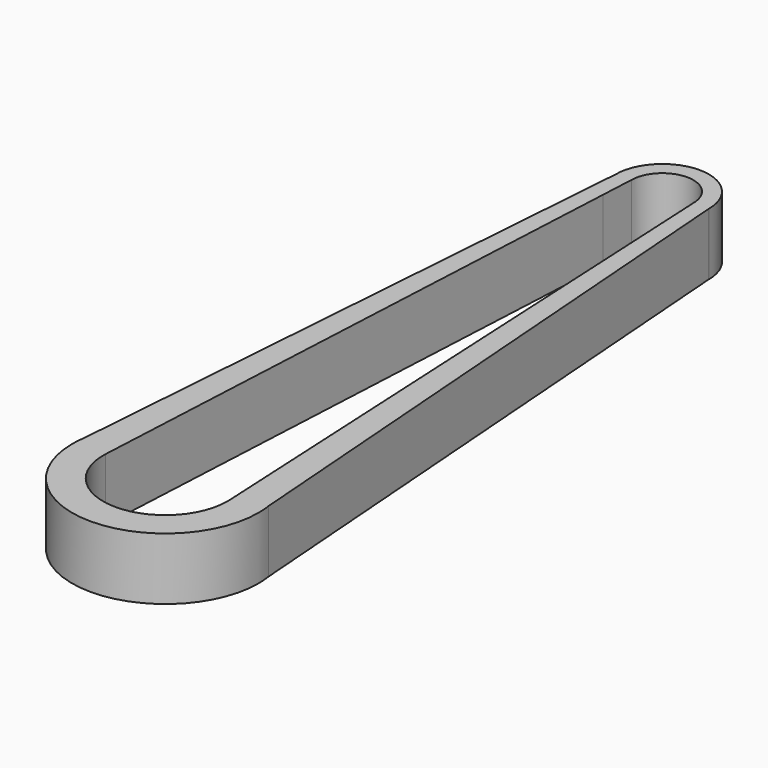
from build123d import *

# Parameters (mm, degrees)
F1_DEPTH = 12.5


with BuildPart() as f1:
    # F0 (on Top) → F1 (new body, symmetric)
    with BuildSketch(Plane.XY):
        with BuildLine():
            Line((23.5693570301, 29.1673689109), (24.9686519266, 1.2515674037))
            ThreePointArc((24.9686519266, 1.2515674037), (24.9921617529, 0.6259799653), (25, 0))
            ThreePointArc((25, 0), (-0.6259799653, -24.9921617529), (-24.9686519266, 1.2515674037))
            Line((-24.9686519266, 1.2515674037), (-23.5693570301, 29.1673689109))
            ThreePointArc((-23.5693570301, 29.1673689109), (-32.5350921775, 18.6471922015), (-37.0804847732, 5.593536358))
            Line((-37.0804847732, 5.593536358), (-37.5, 0))
            ThreePointArc((-37.5, 0), (0, -37.5), (37.5, 0))
            Line((37.5, 0), (37.079787025, 5.5981598921))
            ThreePointArc((37.079787025, 5.5981598921), (32.5339295521, 18.6492205709), (23.5693570301, 29.1673689109))
        make_face()
        with BuildLine():
            Line((13.1690200809, 236.6531123437), (23.5693570301, 29.1673689109))
            ThreePointArc((23.5693570301, 29.1673689109), (32.5339295521, 18.6492205709), (37.079787025, 5.5981598921))
            Line((37.079787025, 5.5981598921), (18.7489831982, 249.8047334338))
            ThreePointArc((18.7489831982, 249.8047334338), (17.260678366, 242.6766481483), (13.1690200809, 236.6531123437))
        make_face()
        with BuildLine():
            ThreePointArc((-37.0804847732, 5.593536358), (-32.5350921775, 18.6471922015), (-23.5693570301, 29.1673689109))
            Line((-23.5693570301, 29.1673689109), (-13.1690200809, 236.6531123437))
            ThreePointArc((-13.1690200809, 236.6531123437), (-17.2985783595, 242.7666268766), (-18.75, 250))
            Line((-18.75, 250), (-37.0804847732, 5.593536358))
        make_face()
        with BuildLine():
            Line((12.5, 250), (13.1690200809, 236.6531123437))
            ThreePointArc((13.1690200809, 236.6531123437), (17.260678366, 242.6766481483), (18.7489831982, 249.8047334338))
            ThreePointArc((18.7489831982, 249.8047334338), (18.7497457978, 249.9023653932), (18.75, 250))
            ThreePointArc((18.75, 250), (0, 268.75), (-18.75, 250))
            ThreePointArc((-18.75, 250), (-17.2985783595, 242.7666268766), (-13.1690200809, 236.6531123437))
            Line((-13.1690200809, 236.6531123437), (-12.5, 250))
            ThreePointArc((-12.5, 250), (0, 262.5), (12.5, 250))
        make_face()
        with BuildLine():
            ThreePointArc((37.5, 0), (37.3947991935, 2.8069544493), (37.079787025, 5.5981598921))
            Line((37.079787025, 5.5981598921), (37.5, 0))
        make_face()
        with BuildLine():
            Line((-37.5, 0), (-37.0804847732, 5.593536358))
            ThreePointArc((-37.0804847732, 5.593536358), (-37.3949741208, 2.8046230591), (-37.5, 0))
        make_face()
    extrude(amount=F1_DEPTH, both=True)


solid = f1.part
